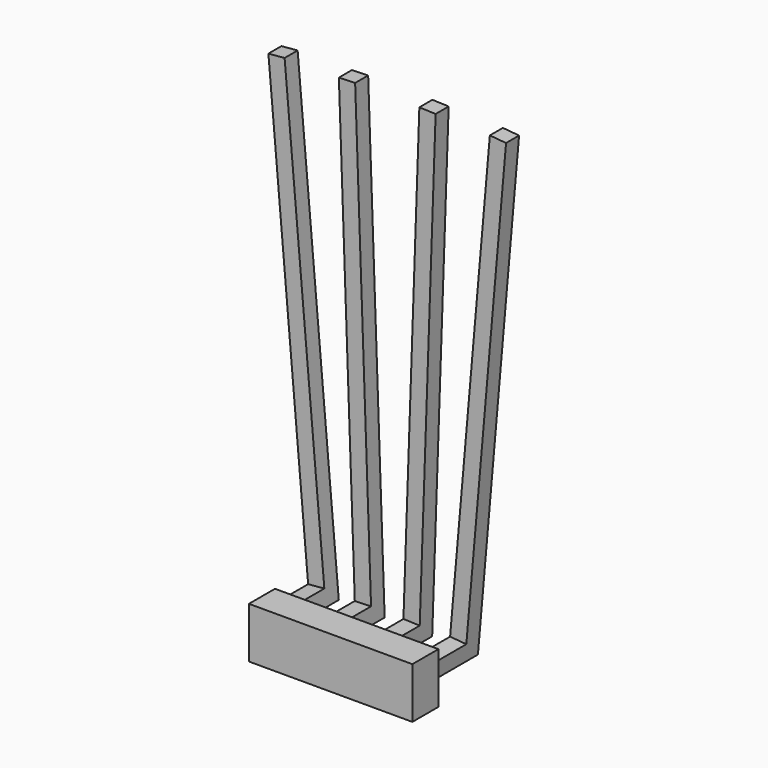
from build123d import *

# Parameters (mm, degrees)
SKETCH009_W  = 5.019769
SKETCH009_H  = 1.561025
PAD007_DEPTH = 1
PAD005_DEPTH = 0.5
PAD006_DEPTH = 0.5
PAD008_DEPTH = 0.5
PAD009_DEPTH = 0.5


with BuildPart() as part:
    # Sketch009 → Pad007 (new body)
    with BuildSketch(Plane.XZ.offset(1.25)):
        with Locations((1.436677, 3.083954)):
            Rectangle(SKETCH009_W, SKETCH009_H)
    extrude(amount=PAD007_DEPTH)

    # Sketch005 → Pad005 (join)
    with BuildSketch(Plane(origin=(-0.75, 0, 0), x_dir=(0, 1, 0), z_dir=(0.996195, 0, 0.087156))):
        Polygon((-1.5, 3), (0.5, 3), (0.5, 17.5), (0, 17.5), (0, 3.5), (-1.5, 3.5), align=None)
    extrude(amount=PAD005_DEPTH)

    # Sketch006 → Pad006 (join)
    with BuildSketch(Plane(origin=(0.5, 0, 0), x_dir=(0, 1, 0), z_dir=(0.999391, 0, 0.034899))):
        Polygon((-1.5, 3), (0.5, 3), (0.5, 17.5), (0, 17.5), (0, 3.5), (-1.5, 3.5), align=None)
    extrude(amount=PAD006_DEPTH)

    # Sketch007 → Pad008 (join)
    with BuildSketch(Plane(origin=(1.75, 0, 0), x_dir=(0, 1, 0), z_dir=(0.999391, 0, -0.034899))):
        Polygon((-1.5, 3), (0.5, 3), (0.5, 17.5), (0, 17.5), (0, 3.5), (-1.5, 3.5), align=None)
    extrude(amount=PAD008_DEPTH)

    # Sketch008 → Pad009 (join)
    with BuildSketch(Plane(origin=(3, 0, 0), x_dir=(0, 1, 0), z_dir=(0.996195, 0, -0.087156))):
        Polygon((-1.5, 3), (0.5, 3), (0.5, 17.5), (0, 17.5), (0, 3.5), (-1.5, 3.5), align=None)
    extrude(amount=PAD009_DEPTH)


solid = part.part
